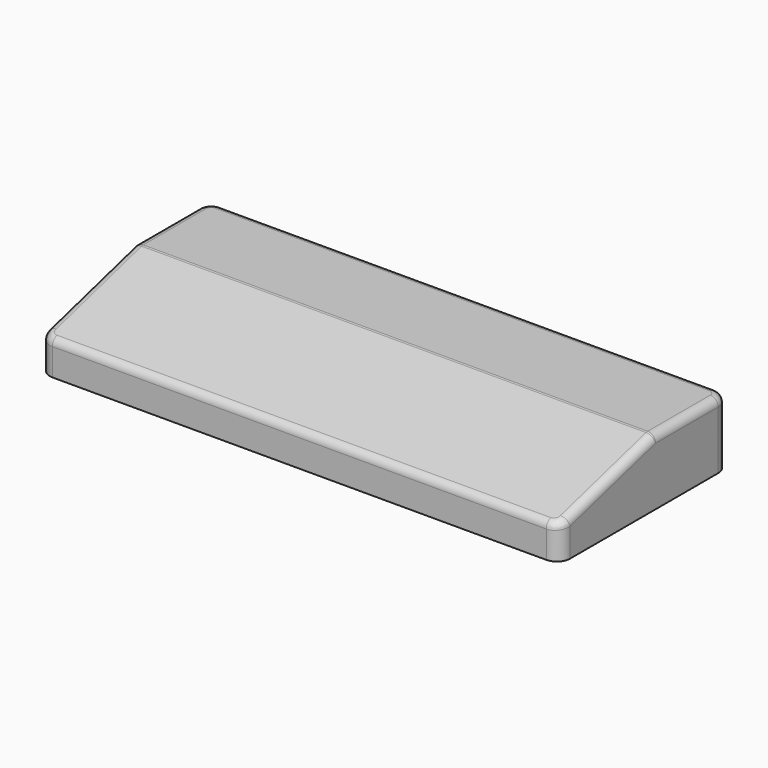
from build123d import *

# Parameters (mm, degrees)
RIGHT_PALM_PAD_DEPTH        = 25
RIGHT_PALM_WEDGE_DEPTH      = 5.38135
RIGHT_PALM_WEDGE_DEPTH_BACK = 191.308
RIGHT_PALM_FILLET_R         = 3


with BuildPart() as part:
    # Right_Palm_Base → Right_Palm_Pad (new body)
    with BuildSketch(Plane.XY.offset(-18)):
        with BuildLine():
            Line((-0.38035, -90.791), (186.307, -90.791))
            ThreePointArc((186.307, -90.791), (189.842534, -89.326534), (191.307, -85.791))
            Line((191.307, -85.791), (191.307, -15.791))
            ThreePointArc((191.307, -15.791), (189.842534, -12.255466), (186.307, -10.791))
            Line((186.307, -10.791), (-0.38035, -10.791))
            ThreePointArc((-0.38035, -10.791), (-3.915884, -12.255466), (-5.38035, -15.791))
            Line((-5.38035, -15.791), (-5.38035, -85.791))
            ThreePointArc((-5.38035, -85.791), (-3.915884, -89.326534), (-0.38035, -90.791))
        make_face()
    extrude(amount=RIGHT_PALM_PAD_DEPTH)

    # Right_Palm_WedgeCut → Right_Palm_Wedge (cut, two sides)
    with BuildSketch(Plane.YZ) as right_palm_wedge_sk:
        Polygon((-45.791, 7), (-92.791, -6), (-92.791, 9), (-45.791, 9), align=None)
    extrude(amount=-RIGHT_PALM_WEDGE_DEPTH, mode=Mode.SUBTRACT)
    extrude(right_palm_wedge_sk.sketch, amount=RIGHT_PALM_WEDGE_DEPTH_BACK, mode=Mode.SUBTRACT)

    # Right_Palm_Fillet
    right_palm_fillet_edges = [part.edges().sort_by_distance(p)[0] for p in [
        (92.963325, -90.791, -5.446809),
        (189.874947, -89.293821, -5.032695),
        (92.963325, -45.791, 7),
        (-5.38035, -65.791, 1.468085),
        (-3.948297, -89.293821, -5.032695),
        (191.307, -65.791, 1.468085),
        (191.307, -30.791, 7),
        (189.842534, -12.255466, 7),
        (92.963325, -10.791, 7),
        (-3.915884, -12.255466, 7),
        (-5.38035, -30.791, 7),
    ]]
    fillet(right_palm_fillet_edges, radius=RIGHT_PALM_FILLET_R)


with BuildPart() as part_1:
    # Right_Palm_Rest placement: moved
    add(part.part.moved(Location((174.06235, 0, 0))))


solid = part_1.part
